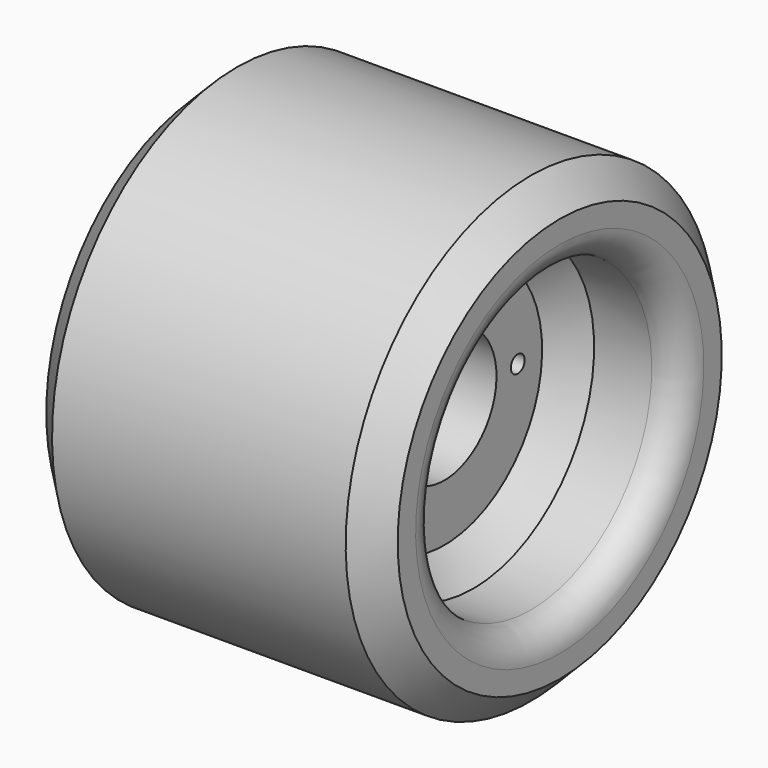
from build123d import *

# Parameters (mm, degrees)
F0_W      = 19.9827682227
F0_H      = 13.8834062964
F2_R      = 5
F3_SIZE   = 5
F5_D      = 3
F7_D      = 3
F9_D      = 3
F11_DEPTH = 2


with BuildPart() as f1:
    # F0 (on Front) → F1 (revolve)
    with BuildSketch(Plane.XZ):
        Polygon((-5.1426226273, 40.0602705777), (-45.9897518158, 40.0602705777), (-45.9897518158, 11.2985512242), (-5.1426226273, 11.2985512242), (-5.1426226273, 26.1768642813), align=None)
        with Locations((4.848761484, 33.1185674295)):
            Rectangle(F0_W, F0_H)
    revolve(axis=Axis((-8.3751268685, 0, 0), (1, 0, 0)))

    # F2
    f2_edges = [f1.edges().sort_by_distance(p)[0] for p in [
        (14.840146, 0, -26.176864),
    ]]
    fillet(f2_edges, radius=F2_R)

    # F3
    f3_edges = [f1.edges().sort_by_distance(p)[0] for p in [
        (-5.142623, 0, -26.176864),
        (14.840146, 0, -40.060271),
        (-45.989752, 0, -40.060271),
        (-15.574803, 0, 40.060271),
    ]]
    chamfer(f3_edges, length=F3_SIZE)

    # F5 (through all)
    with Locations(Plane.YZ.offset(-5.1426226273)):
        with Locations((-16.2885512242, 0)):
            Hole(F5_D / 2)

    # F7 (through all)
    with Locations(Plane.YZ.offset(-5.1426226273)):
        with Locations((15.9020125866, 0)):
            Hole(F7_D / 2)

    # F9 (through all)
    with Locations(Plane.YZ.offset(-5.1426226273)):
        with Locations((0, 16.050176695)):
            Hole(F9_D / 2)

    # F10 (on face) → F11 (cut)
    with BuildSketch(Plane.YZ.offset(-5.1426226273)):
        with BuildLine():
            Line((5.9653543867, 17.550176695), (0, 17.550176695))
            ThreePointArc((0, 17.550176695), (1.0606601718, 17.1108368668), (1.5, 16.050176695))
            ThreePointArc((1.5, 16.050176695), (1.2449620199, 15.2134750941), (0.5665739081, 14.6612944081))
            Line((0.5665739081, 14.6612944081), (5.9653543867, 14.6612944081))
            Line((5.9653543867, 14.6612944081), (5.9653543867, 17.550176695))
        make_face()
    extrude(amount=-F11_DEPTH, mode=Mode.SUBTRACT)


solid = f1.part
